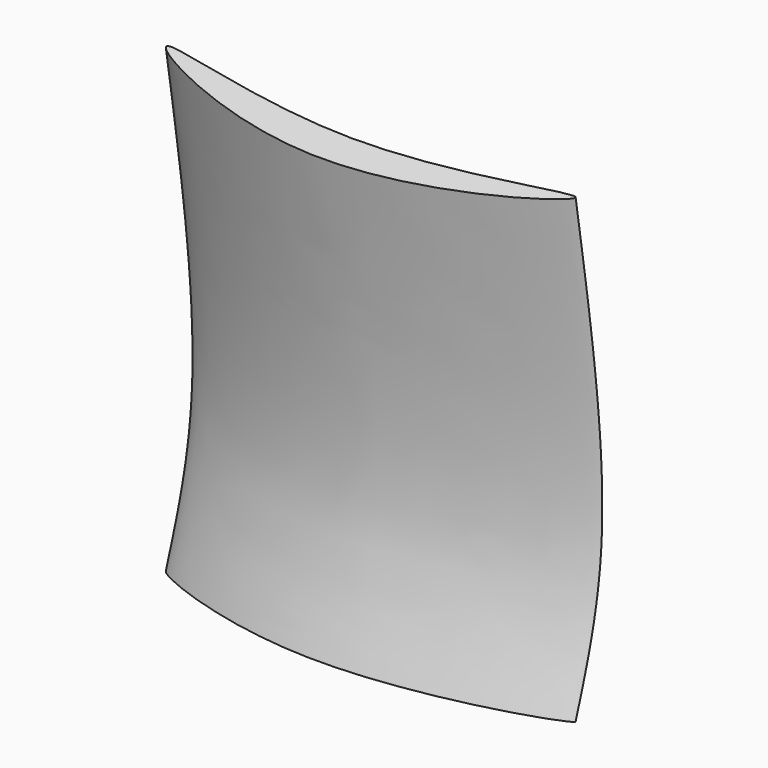
from build123d import *


with BuildPart() as f0:
    # F0: sweep along a path in F2
    with BuildLine(Plane.YZ) as f0_path:
        add(Plane.YZ * Edge.make_bspline(
            [(0, 0), (4.8266776689, 14.6075066745), (16.6583568841, 50.4150190573), (6.1949237366, 114.715847682), (0, 152.7854502201)],
            knots=[0, 0, 0, 0, 0.4079453046, 1, 1, 1, 1], degree=3))
    # F3 (on Top) → F0 (sweep)
    with BuildSketch(Plane.XY):
        with BuildLine():
            add(Edge.make_bspline(
                [(-59.0841621161, 0), (-58.4148469297, 2.2774923322), (5.9901382833, -15.0411594439), (114.3859745228, 11.064250306), (0.0636929782, -28.1497721889), (-59.7281225744, -2.1912172861), (-59.0841621161, 0)],
                knots=[0, 0, 0, 0, 0.2450260164, 0.497920377, 0.7642559603, 1, 1, 1, 1], degree=3))
        make_face()
    sweep(path=f0_path.line)


solid = f0.part
